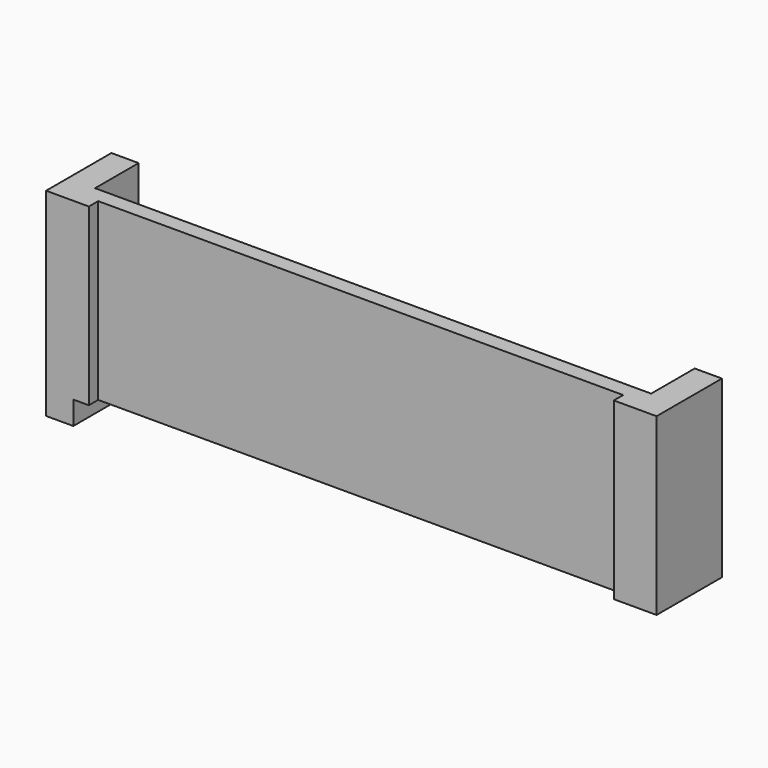
from build123d import *

# Parameters (mm, degrees)
F0_W      = 7
F0_H      = 45
F0_W_2    = 4
F1_DEPTH  = 18
F2_W      = 143
F2_H      = 14
F3_DEPTH  = 55
F4_DEPTH  = 6
F5_W      = 10
F5_H      = 20
F6_DEPTH  = 25
F7_DEPTH  = 3
F9_W      = 7
F9_H      = 6
F10_DEPTH = 3


with BuildPart() as f1:
    # F0 (on Front) → F1 (new body)
    with BuildSketch(Plane.XZ):
        with Locations((71, 0)):
            Rectangle(F0_W, F0_H)
        Polygon((67.5, -22.5), (67.5, 22.5), (-67.5, 22.5), (-67.5, -22.5), (0, -22.5), align=None)
        with Locations((-71, 0)):
            Rectangle(F0_W, F0_H)
        with Locations((-76.5, 0)):
            Rectangle(F0_W_2, F0_H)
        with Locations((76.5, 0)):
            Rectangle(F0_W_2, F0_H)
        Polygon((67.5, -22.5), (67.5, 22.5), (-67.5, 22.5), (-67.5, -22.5), (0, -22.5), align=None)
    extrude(amount=-F1_DEPTH)

    # F2 (on face) → F3 (cut)
    with BuildSketch(Plane(origin=(0, 0, -22.5), x_dir=(1, 0, 0), z_dir=(0, 0, -1))):
        with Locations((0, -11)):
            Rectangle(F2_W, F2_H)
    extrude(amount=-F3_DEPTH, mode=Mode.SUBTRACT)

    # F2 (on face) → F4 (join)
    with BuildSketch(Plane(origin=(0, 0, -22.5), x_dir=(1, 0, 0), z_dir=(0, 0, -1))):
        Polygon((-74.5, -18), (-71.5, -18), (-71.5, -4), (-71.5, 0), (-78.5, 0), (-78.5, -18), align=None)
    extrude(amount=F4_DEPTH)

    # F5 (on face) → F6 (cut)
    with BuildSketch(Plane(origin=(-78.5, 0, 0), x_dir=(0, -1, 0), z_dir=(-1, 0, 0))):
        with Locations((-13, -10.5)):
            Rectangle(F5_W, F5_H)
    extrude(amount=-F6_DEPTH, mode=Mode.SUBTRACT)


with BuildPart() as f7:
    # F0 (on Front) → F7 (new body)
    with BuildSketch(Plane.XZ):
        with Locations((71, 0)):
            Rectangle(F0_W, F0_H)
        with Locations((76.5, 0)):
            Rectangle(F0_W_2, F0_H)
    extrude(amount=F7_DEPTH)


with BuildPart() as f7b:
    # F0 (on Front) → F7, piece 2 (new body)
    with BuildSketch(Plane.XZ):
        with Locations((-71, 0)):
            Rectangle(F0_W, F0_H)
        with Locations((-76.5, 0)):
            Rectangle(F0_W_2, F0_H)
    extrude(amount=F7_DEPTH)


with BuildPart() as f7_1:
    add(f7.part)

    # F8: union F1, F7b
    add(f1.part)
    add(f7b.part)

    # F9 (on face) → F10 (join)
    with BuildSketch(Plane.XZ):
        with Locations((-75, -25.5)):
            Rectangle(F9_W, F9_H)
    extrude(amount=F10_DEPTH)


solid = f7_1.part
